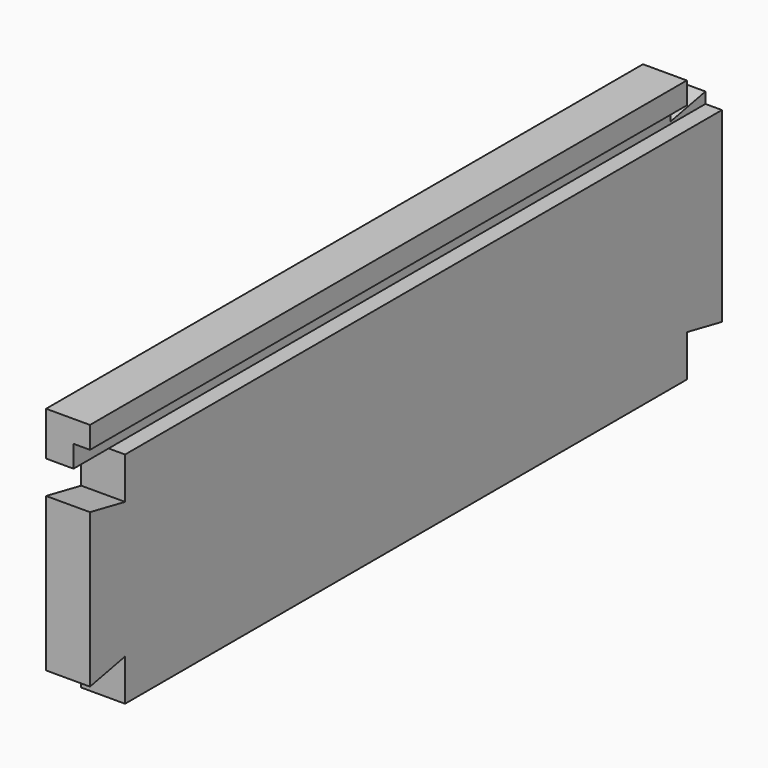
from build123d import *

# Parameters (mm, degrees)
F0_W     = 12.7
F0_H     = 76.2
F1_DEPTH = 114.3
F3_DEPTH = 12.7
F4_W     = 228.6
F4_H     = 6.35
F5_DEPTH = 4.7625


with BuildPart() as f1:
    # F0 (on Front) → F1 (new body, symmetric)
    with BuildSketch(Plane.XZ):
        Rectangle(F0_W, F0_H)
    extrude(amount=F1_DEPTH, both=True)

    # F2 (on face) → F3 (cut, through all)
    with BuildSketch(Plane.YZ.offset(6.35)):
        Polygon((-101.6, 25.4), (-114.3, 25.4), (-114.3, 15.875), (-101.6, 13.33729), align=None)
        Polygon((-114.3, -28.575), (-114.3, -38.1), (-101.6, -38.1), (-101.6, -26.03729), align=None)
        Polygon((114.3, 28.575), (114.3, 38.1), (101.6, 38.1), (101.6, 26.03729), align=None)
        Polygon((101.6, -38.1), (114.3, -38.1), (114.3, -28.575), (101.6, -26.03729), align=None)
    extrude(amount=-F3_DEPTH, mode=Mode.SUBTRACT)

    # F4 (on face) → F5 (cut)
    with BuildSketch(Plane.YZ.offset(6.35)):
        with Locations((0, 28.575)):
            Rectangle(F4_W, F4_H)
    extrude(amount=-F5_DEPTH, mode=Mode.SUBTRACT)


solid = f1.part
